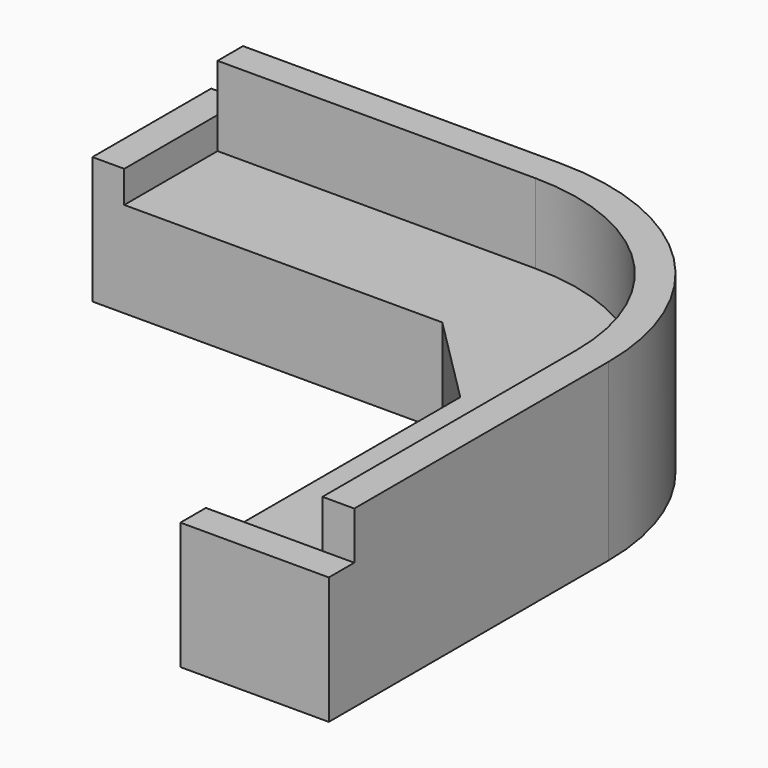
from build123d import *

# Parameters (mm, degrees)
F1_DEPTH = 457.2
F3_DEPTH = 838.2
F4_W     = 152.4
F4_H     = 711.2
F4_W_2   = 711.2
F4_H_2   = 152.4
F5_DEPTH = 609.6


with BuildPart() as f1:
    # F0 (on Top) → F1 (new body)
    with BuildSketch(Plane.XY):
        with BuildLine():
            Line((-1955.052294, 0), (-431.052294, 0))
            Line((-431.052294, 0), (0, -431.052294))
            Line((0, -431.052294), (0, -1955.052294))
            Line((0, -1955.052294), (558.8, -1955.052294))
            Line((558.8, -1955.052294), (558.8, -431.052294))
            ThreePointArc((558.8, -431.052294), (268.878976, 268.878976), (-431.052294, 558.8))
            Line((-431.052294, 558.8), (-1955.052294, 558.8))
            Line((-1955.052294, 558.8), (-1955.052294, 0))
        make_face()
    extrude(amount=F1_DEPTH)

    # F2 (on Top) → F3 (join)
    with BuildSketch(Plane.XY):
        with BuildLine():
            Line((-1955.052294, 558.8), (-431.052294, 558.8))
            ThreePointArc((-431.052294, 558.8), (268.878976, 268.878976), (558.8, -431.052294))
            Line((558.8, -431.052294), (558.8, -1955.052294))
            Line((558.8, -1955.052294), (711.2, -1955.052294))
            Line((711.2, -1955.052294), (711.2, -431.052294))
            ThreePointArc((711.2, -431.052294), (376.642049, 376.642049), (-431.052294, 711.2))
            Line((-431.052294, 711.2), (-1955.052294, 711.2))
            Line((-1955.052294, 711.2), (-1955.052294, 558.8))
        make_face()
    extrude(amount=F3_DEPTH)

    # F4 (on Top) → F5 (join)
    with BuildSketch(Plane.XY):
        with Locations((-2031.252294, 355.6)):
            Rectangle(F4_W, F4_H)
        with Locations((355.6, -2031.252294)):
            Rectangle(F4_W_2, F4_H_2)
    extrude(amount=F5_DEPTH)


solid = f1.part
